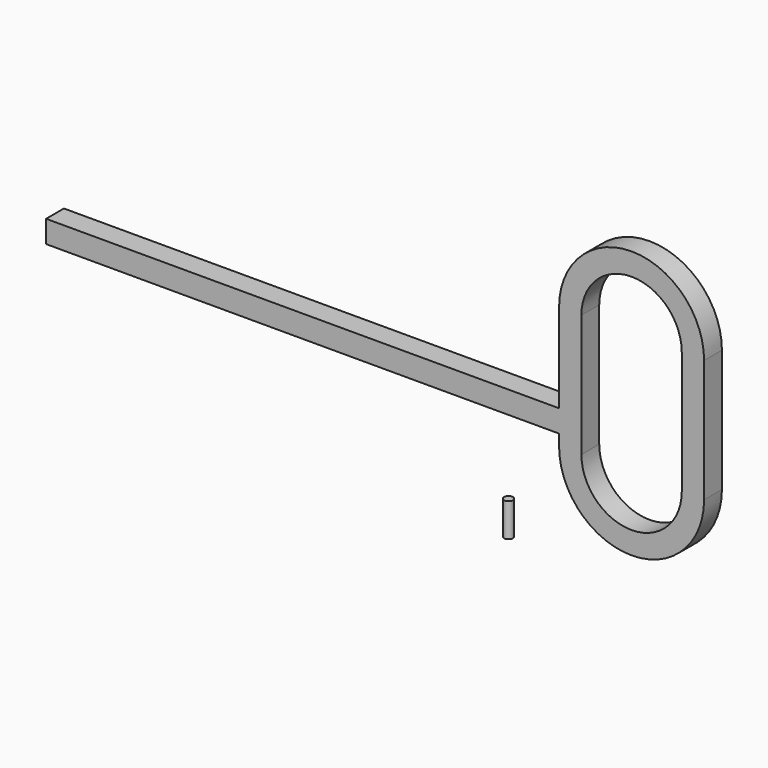
from build123d import *

# Parameters (mm, degrees)
F1_DEPTH = 10
F3_DEPTH = 10.001
F4_W     = 10
F4_H     = 10
F5_DEPTH = 230
F6_R     = 2
F7_DEPTH = 5
F8_R     = 2
F9_DEPTH = 15


with BuildPart() as f1:
    # F0 (on Front) → F1 (new body)
    with BuildSketch(Plane.XZ):
        with BuildLine():
            ThreePointArc((4.590516, 14.090832), (0.543693, 29.79646), (-10.588976, 41.590832))
            ThreePointArc((-10.588976, 41.590832), (0.543693, 53.385204), (4.590516, 69.090832))
            ThreePointArc((4.590516, 69.090832), (-27.909484, 101.590832), (-60.409484, 69.090832))
            ThreePointArc((-60.409484, 69.090832), (-56.36266, 53.385204), (-45.229992, 41.590832))
            ThreePointArc((-45.229992, 41.590832), (-56.36266, 29.79646), (-60.409484, 14.090832))
            ThreePointArc((-60.409484, 14.090832), (-27.909484, -18.409168), (4.590516, 14.090832))
        make_face()
        with BuildLine():
            ThreePointArc((4.590516, 69.090832), (0.543693, 53.385204), (-10.588976, 41.590832))
            ThreePointArc((-10.588976, 41.590832), (0.543693, 29.79646), (4.590516, 14.090832))
            Line((4.590516, 14.090832), (4.590516, 69.090832))
        make_face()
        with BuildLine():
            ThreePointArc((-45.229992, 41.590832), (-56.36266, 53.385204), (-60.409484, 69.090832))
            Line((-60.409484, 69.090832), (-60.409484, 14.090832))
            ThreePointArc((-60.409484, 14.090832), (-56.36266, 29.79646), (-45.229992, 41.590832))
        make_face()
    extrude(amount=F1_DEPTH)

    # F2 (on face) → F3 (cut, through all)
    with BuildSketch(Plane.XZ.offset(10)):
        with BuildLine():
            ThreePointArc((-5.409484, 69.090832), (-27.909484, 91.590832), (-50.409484, 69.090832))
            Line((-50.409484, 69.090832), (-50.409484, 14.090832))
            ThreePointArc((-50.409484, 14.090832), (-27.909484, -8.409168), (-5.409484, 14.090832))
            Line((-5.409484, 14.090832), (-5.409484, 69.090832))
        make_face()
    extrude(amount=-F3_DEPTH, mode=Mode.SUBTRACT)

    # F4 (on face) → F5 (join)
    with BuildSketch(Plane(origin=(-60.409484, 0, 0), x_dir=(0, -1, 0), z_dir=(-1, 0, 0))):
        with Locations((5, 24.090832)):
            Rectangle(F4_W, F4_H)
    extrude(amount=F5_DEPTH)

    # F6 (on face) → F7 (cut)
    with BuildSketch(Plane(origin=(0, 0, 19.090832), x_dir=(1, 0, 0), z_dir=(0, 0, -1))):
        with Locations((-132.909484, 5)):
            Circle(F6_R)
        with Locations((-282.909484, 5)):
            Circle(F6_R)
    extrude(amount=-F7_DEPTH, mode=Mode.SUBTRACT)


with BuildPart() as f9:
    # F8 (on Top) → F9 (new body)
    with BuildSketch(Plane.XY):
        with Locations((-48.362393, -53.411171)):
            Circle(F8_R)
    extrude(amount=F9_DEPTH)


solid = Compound([f1.part, f9.part])
